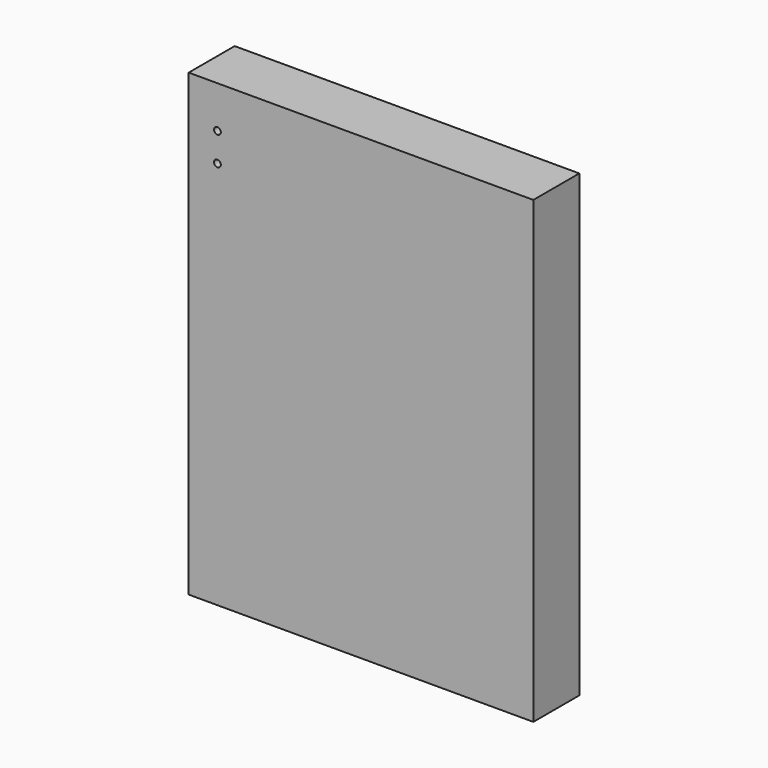
from build123d import *

# Parameters (mm, degrees)
F0_W     = 152.4
F0_H     = 203.2
F2_DEPTH = 25.4
F3_DEPTH = 25.4


with BuildPart() as f2:
    # F0 (on Front) → F2 (new body)
    with BuildSketch(Plane.XZ):
        Rectangle(F0_W, F0_H)
    extrude(amount=F2_DEPTH)

    # F1 (on Front) → F3 (cut)
    with BuildSketch(Plane.XZ):
        with BuildLine():
            Line((-63.5, 83.055267), (-63.5, 84.555267))
            ThreePointArc((-63.5, 84.555267), (-65, 83.055267), (-63.5, 81.555267))
            Line((-63.5, 81.555267), (-63.5, 83.055267))
        make_face()
        with BuildLine():
            ThreePointArc((-62, 83.055267), (-62.43934, 84.115927), (-63.5, 84.555267))
            Line((-63.5, 84.555267), (-63.5, 83.055267))
            Line((-63.5, 83.055267), (-63.5, 81.555267))
            ThreePointArc((-63.5, 81.555267), (-62.43934, 81.994607), (-62, 83.055267))
        make_face()
        with BuildLine():
            ThreePointArc((-62, 70.355267), (-62.43934, 71.415927), (-63.5, 71.855267))
            ThreePointArc((-63.5, 71.855267), (-64.56066, 69.294607), (-62, 70.355267))
        make_face()
    extrude(amount=F3_DEPTH, mode=Mode.SUBTRACT)


solid = f2.part
